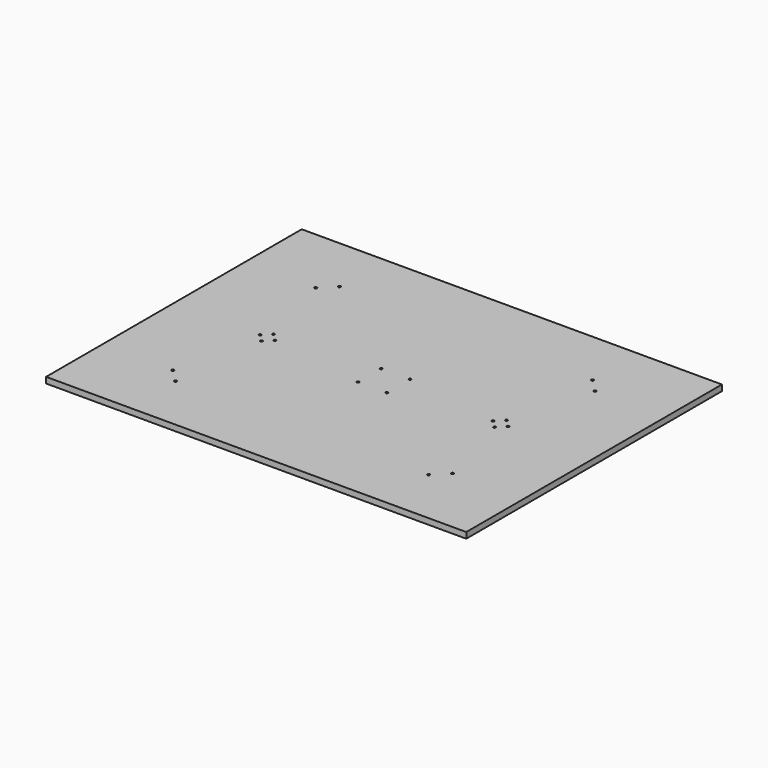
from build123d import *

# Parameters (mm, degrees)
F0_W     = 450.85
F0_H     = 342.9
F1_DEPTH = 6.35
F3_D     = 2.5781
F3_DEPTH = 13.905
F3_TIP   = 0.774539381
F4_D     = 2.5
F5_D     = 2.5
F6_D     = 2.7051


with BuildPart() as f1:
    # F0 (on Top) → F1 (new body)
    with BuildSketch(Plane.XY):
        with Locations((-225.425, -171.45)):
            Rectangle(F0_W, F0_H)
    extrude(amount=F1_DEPTH)

    # F3
    with Locations(Plane.XY.offset(6.35)):
        with Locations((-240.925, -155.95), (-209.925, -155.95), (-209.925, -186.95), (-240.925, -186.95)):
            Hole(F3_D / 2, depth=F3_DEPTH)
            with Locations((0, 0, -(F3_DEPTH + F3_TIP / 2))):  # 118° drill point
                Cone(0, F3_D / 2, F3_TIP, mode=Mode.SUBTRACT)

    # F4 (through all)
    with Locations(Plane.XY.offset(6.35)):
        with Locations((-342.425, -171.45), (-358.425, -171.45), (-350.425, -163.45), (-350.425, -179.45)):
            Hole(F4_D / 2)

    # F5 (through all)
    with Locations(Plane.XY.offset(6.35)):
        with Locations((-100.425, -163.45), (-108.425, -171.45), (-100.425, -179.45), (-92.425, -171.45)):
            Hole(F5_D / 2)

    # F6 (through all)
    with Locations(Plane.XY.offset(6.35)):
        with Locations((-361.18236, -61.55051), (-375.32449, -75.69264), (-89.66764, -61.55051), (-75.52551, -75.69264), (-75.52551, -267.20736), (-89.66764, -281.34949), (-361.18236, -281.34949), (-375.32449, -267.20736)):
            Hole(F6_D / 2)


solid = f1.part
